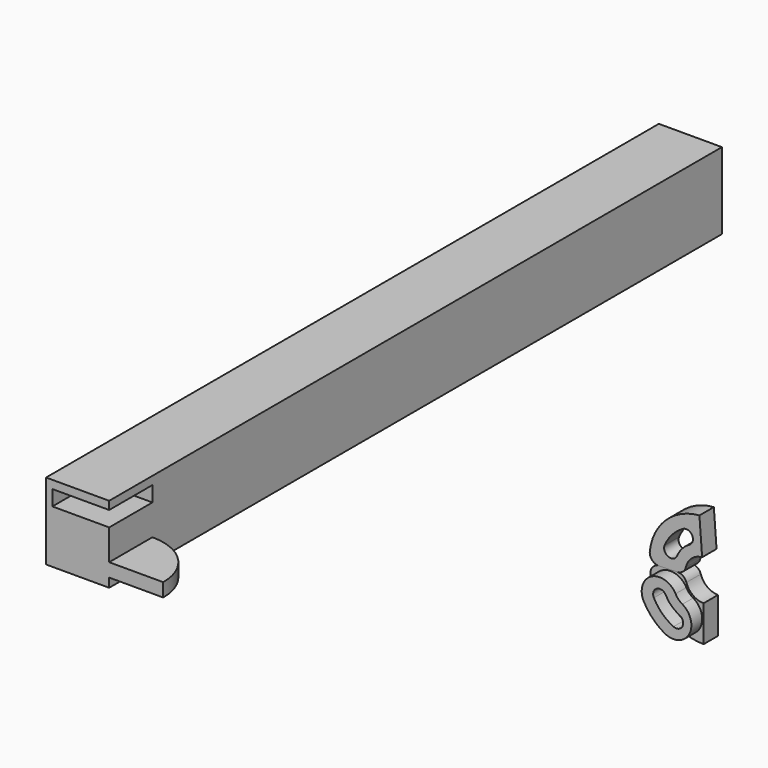
from build123d import *

# Parameters (mm, degrees)
F1_DEPTH  = 8.5
F4_DEPTH  = 1.5
F5_W      = 6
F5_H      = 1.7
F6_DEPTH  = 6.3
F8_DEPTH  = 2
F11_DEPTH = 1.5


with BuildPart() as f1:
    # F0 (on Top) → F1 (new body)
    with BuildSketch(Plane.XY):
        Polygon((-44.0608784556, 49.3143303692), (-51.0608784556, 49.3143303692), (-51.0608784556, -35.6856696308), (-44.0608784556, -35.6856696308), (-44.0608784556, -29.6856696308), align=None)
    extrude(amount=F1_DEPTH)

    # F3 (on offset) → F4 (join)
    with BuildSketch(Plane.XY.offset(1)):
        with BuildLine():
            ThreePointArc((-38.0608784556, -35.6856696308), (-39.8182377685, -31.4430289436), (-44.0608784556, -29.6856696308))
            Line((-44.0608784556, -29.6856696308), (-44.0608784556, -35.6856696308))
            Line((-44.0608784556, -35.6856696308), (-38.0608784556, -35.6856696308))
        make_face()
    extrude(amount=F4_DEPTH)

    # F5 (on face) → F6 (cut)
    with BuildSketch(Plane.YZ.offset(-44.0608784556)):
        with Locations((-32.6856696308, 6.75)):
            Rectangle(F5_W, F5_H)
    extrude(amount=-F6_DEPTH, mode=Mode.SUBTRACT)


with BuildPart() as f8:
    # F7 (on Front) → F8 (new body)
    with BuildSketch(Plane.XZ):
        with BuildLine():
            ThreePointArc((-11.5830838789, -1.8096130051), (-12.3295300446, -2.1881894299), (-12.5267582762, -3.001579258))
            ThreePointArc((-12.5267582762, -3.001579258), (-10.4512512978, -6.4789110558), (-6.6391801015, -7.8455415266))
            Line((-6.6391801015, -7.8455415266), (-6.6391801015, -3.8455415266))
            ThreePointArc((-6.6391801015, -3.8455415266), (-7.8261601413, -3.4552242235), (-8.5498413333, -2.4366199115))
            ThreePointArc((-8.5498413333, -2.4366199115), (-8.9269159095, -1.9163037538), (-9.542760581, -1.7328658064))
            Line((-9.542760581, -1.7328658064), (-11.5830838789, -1.8096130051))
        make_face()
        with BuildLine():
            ThreePointArc((-8.6146861663, -6.0820279542), (-9.8817958098, -5.2124221053), (-10.798416024, -3.9788952253))
            ThreePointArc((-10.798416024, -3.9788952253), (-10.4733696324, -2.9692691345), (-9.4637435416, -3.294315526))
            ThreePointArc((-9.4637435416, -3.294315526), (-8.8412609525, -4.1320114377), (-7.9807587737, -4.7225662736))
            ThreePointArc((-7.9807587737, -4.7225662736), (-7.6179916297, -5.7192608102), (-8.6146861663, -6.0820279542))
        make_face(mode=Mode.SUBTRACT)
    extrude(amount=-F8_DEPTH)


with BuildPart() as f11:
    # F10 (on offset) → F11 (new body)
    with BuildSketch(Plane.XZ.offset(0.2)):
        with BuildLine():
            ThreePointArc((-7.6391801015, -3.5775923341), (-8.0711782653, -3.2417439684), (-8.3959854459, -2.8013840772))
            ThreePointArc((-8.3959854459, -2.8013840772), (-11.1086333411, -2.0004212834), (-11.9095961349, -4.7130691785))
            ThreePointArc((-11.9095961349, -4.7130691785), (-10.9351745931, -6.0341488521), (-9.6391801015, -7.0416939493))
            ThreePointArc((-9.6391801015, -7.0416939493), (-6.9071292939, -6.3096431417), (-7.6391801015, -3.5775923341))
        make_face()
        with BuildLine():
            ThreePointArc((-9.4637435416, -3.294315526), (-8.8412609525, -4.1320114377), (-7.9807587737, -4.7225662736))
            ThreePointArc((-7.9807587737, -4.7225662736), (-7.6179916297, -5.7192608102), (-8.6146861663, -6.0820279542))
            ThreePointArc((-8.6146861663, -6.0820279542), (-9.8817958098, -5.2124221053), (-10.798416024, -3.9788952253))
            ThreePointArc((-10.798416024, -3.9788952253), (-10.4733696324, -2.9692691345), (-9.4637435416, -3.294315526))
        make_face(mode=Mode.SUBTRACT)
    extrude(amount=F11_DEPTH)


with BuildPart() as f12_1:
    # F12: instance of F8
    add(f8.part.mirror(Plane(origin=(-10.56292223, 1, -1.7712394057), x_dir=(1, 0, 0), z_dir=(-0.0375886318, 0, 0.9992932977))))


solid = Compound([f1.part, f8.part, f11.part, f12_1.part])
